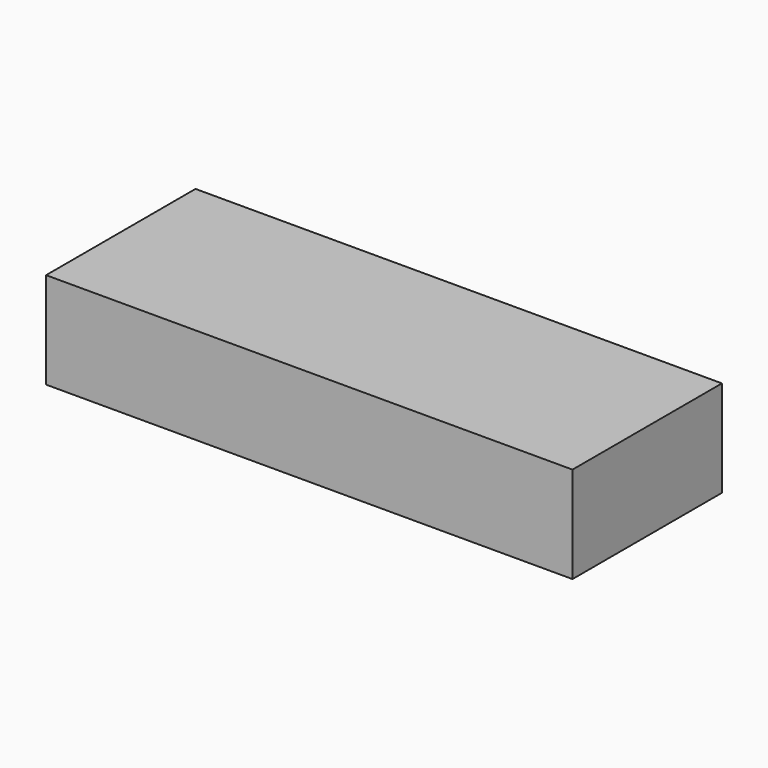
from build123d import *

# Parameters (mm, degrees)
F1_DEPTH = 25.4


with BuildPart() as f1:
    # F0 (on Top) → F1 (new body)
    with BuildSketch(Plane.XY):
        with BuildLine():
            Line((-1.139296, 34.261029), (-113.226138, 34.261029))
            Line((-113.226138, 34.261029), (-113.226138, -14.961273))
            Line((-113.226138, -14.961273), (25.491269, -14.961273))
            Line((25.491269, -14.961273), (25.491269, -13.992183))
            ThreePointArc((25.491269, -13.992183), (2.501831, 4.795333), (-1.139296, 34.261029))
        make_face()
        with BuildLine():
            Line((25.491269, 34.261029), (-1.139296, 34.261029))
            ThreePointArc((-1.139296, 34.261029), (2.501831, 4.795333), (25.491269, -13.992183))
            Line((25.491269, -13.992183), (25.491269, 34.261029))
        make_face()
    extrude(amount=F1_DEPTH)


solid = f1.part
